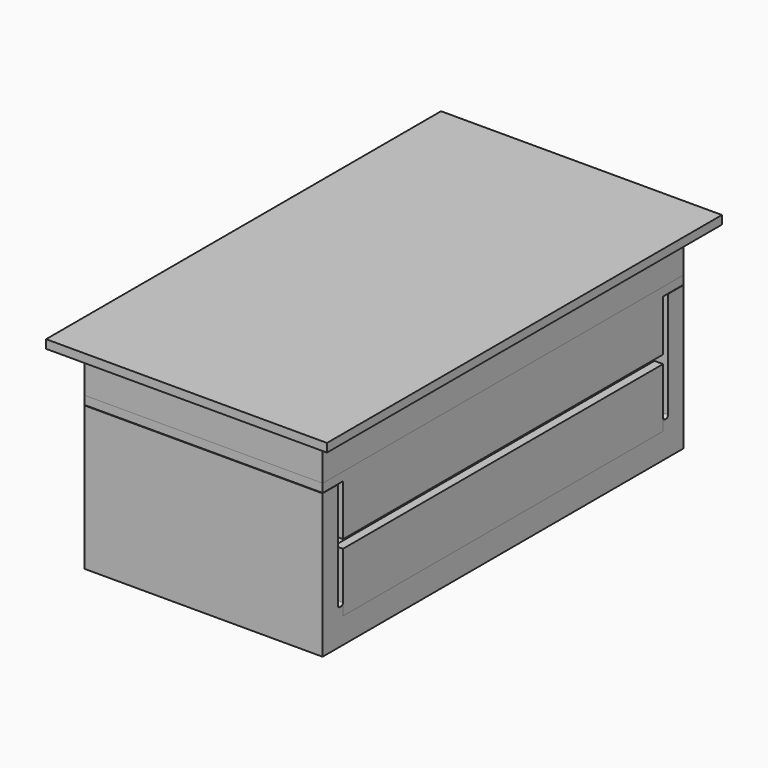
from build123d import *

# Parameters (mm, degrees)
SKETCH001_W     = 33
SKETCH001_H     = 58
PAD_DEPTH       = 1
SKETCH002_W     = 28
SKETCH002_H     = 53
PAD001_DEPTH    = 5
SKETCH003_R     = 5.5
POCKET_DEPTH    = 5
SKETCH015_R     = 1
POCKET003_DEPTH = 5
PAD002_DEPTH    = 23.5
SKETCH005_W     = 28
SKETCH005_H     = 1
PAD003_DEPTH    = 3
SKETCH012_W     = 28
SKETCH012_H     = 1
PAD009_DEPTH    = 3
SKETCH013_R     = 3.125
POCKET001_DEPTH = 4
SKETCH014_R     = 1
POCKET002_DEPTH = 5
PAD004_DEPTH    = 23.5
SKETCH008_W     = 27.983581
SKETCH008_H     = 1.102446
PAD005_DEPTH    = 3
SKETCH009_W     = 27.983581
SKETCH009_H     = 2.25
PAD006_DEPTH    = 12.8
FILLET_R        = 0.3
SKETCH010_W     = 27.983581
SKETCH010_H     = 1.102446
PAD007_DEPTH    = 3
SKETCH011_W     = 27.983581
SKETCH011_H     = 2.25
PAD008_DEPTH    = 12.8
FILLET001_R     = 0.3
SKETCH018_W     = 27.983581
SKETCH018_H     = 53
PAD010_DEPTH    = 3
SKETCH019_W     = 17.5
SKETCH019_H     = 25
POCKET004_DEPTH = 4
SKETCH020_R     = 1
POCKET005_DEPTH = 5


with BuildPart() as base:
    # Sketch001 → Pad (new body)
    with BuildSketch(Plane.XY):
        with Locations((8.25, -15.25)):
            Rectangle(SKETCH001_W, SKETCH001_H)
    extrude(amount=PAD_DEPTH)

    # Sketch002 (on Face5 of Pad) → Pad001 (join)
    with BuildSketch(Plane(origin=(0, 0, 0), x_dir=(1, 0, 0), z_dir=(0, 0, -1))):
        with Locations((8.25, 15.25)):
            Rectangle(SKETCH002_W, SKETCH002_H)
    extrude(amount=PAD001_DEPTH)

    # Sketch003 (on Face11 of Pad001) → Pocket (cut)
    with BuildSketch(Plane(origin=(0, 0, -5), x_dir=(1, 0, 0), z_dir=(0, 0, -1))):
        with Locations((0.25, 35.75)):
            Circle(SKETCH003_R)
        with Locations((16.25, 35.75)):
            Circle(SKETCH003_R)
        with Locations((0.25, -5.25)):
            Circle(SKETCH003_R)
        with Locations((16.25, -5.25)):
            Circle(SKETCH003_R)
    extrude(amount=-POCKET_DEPTH, mode=Mode.SUBTRACT)

    # Sketch015 (on Face11 of Pocket) → Pocket003 (cut)
    with BuildSketch(Plane(origin=(0, 0, -5), x_dir=(1, 0, 0), z_dir=(0, 0, -1))):
        with Locations((8.253864, 3.5)):
            Circle(SKETCH015_R)
        with Locations((8.253864, 27)):
            Circle(SKETCH015_R)
    extrude(amount=-POCKET003_DEPTH, mode=Mode.SUBTRACT)


with BuildPart() as battery:
    # Sketch004 (on DatumPlane) → Pad002 (new body, symmetric)
    with BuildSketch(Plane(origin=(0, -15.25, 0), x_dir=(-1, 0, 0), z_dir=(0, 1, 0))):
        with BuildLine():
            Line((-22.25, -5), (5.75, -5))
            Line((5.75, -5), (5.75, -12))
            Line((5.75, -12), (4.726136, -12))
            ThreePointArc((4.726136, -12), (-0.5, -7.25), (-5.726136, -12))
            Line((-5.726136, -12), (-10.773864, -12))
            ThreePointArc((-10.773864, -12), (-16, -7.25), (-21.226136, -12))
            Line((-21.226136, -12), (-22.25, -12))
            Line((-22.25, -12), (-22.25, -5))
        make_face()
    extrude(amount=PAD002_DEPTH, both=True)

    # Sketch005 (on Face10 of Pad002) → Pad003 (join)
    with BuildSketch(Plane(origin=(0, 8.25, 0), x_dir=(-1, 0, 0), z_dir=(0, 1, 0))):
        with Locations((-8.25, -5.5)):
            Rectangle(SKETCH005_W, SKETCH005_H)
    extrude(amount=PAD003_DEPTH)

    # Sketch012 (on Face4 of Pad003) → Pad009 (join)
    with BuildSketch(Plane(origin=(0, -38.75, 0), x_dir=(-1, 0, 0), z_dir=(0, -1, 0))):
        with Locations((-8.25, 5.5)):
            Rectangle(SKETCH012_W, SKETCH012_H)
    extrude(amount=PAD009_DEPTH)

    # Sketch013 (on Face17 of Pad009) → Pocket001 (cut)
    with BuildSketch(Plane(origin=(0, -15.25, -12), x_dir=(-1, 0, 0), z_dir=(0, 0, -1))):
        with Locations((-8.253864, 11.75)):
            Circle(SKETCH013_R)
        with Locations((-8.253864, -11.75)):
            Circle(SKETCH013_R)
    extrude(amount=-POCKET001_DEPTH, mode=Mode.SUBTRACT)

    # Sketch014 (on Face26 of Pocket001) → Pocket002 (cut)
    with BuildSketch(Plane(origin=(0, -15.25, -8), x_dir=(-1, 0, 0), z_dir=(0, 0, -1))):
        with Locations((-8.253864, 11.75)):
            Circle(SKETCH014_R)
        with Locations((-8.253864, -11.75)):
            Circle(SKETCH014_R)
    extrude(amount=-POCKET002_DEPTH, mode=Mode.SUBTRACT)


with BuildPart() as body002:
    # Sketch007 (on DatumPlane) → Pad004 (new body, symmetric)
    with BuildSketch(Plane(origin=(0, -15.25, 0), x_dir=(-1, 0, 0), z_dir=(0, 1, 0))):
        with BuildLine():
            ThreePointArc((-21.226136, -13), (-16, -17.75), (-10.773864, -13))
            Line((-5.726136, -13), (-10.773864, -13))
            ThreePointArc((-5.726136, -13), (-0.5, -17.75), (4.726136, -13))
            Line((5.75, -13), (4.726136, -13))
            Line((5.75, -17.924353), (5.75, -13))
            Line((5.75, -17.924353), (5.75, -19.952446))
            Line((5.75, -19.952446), (-22.233581, -19.952446))
            Line((-22.233581, -19.952446), (-22.233581, -17.75))
            Line((-22.233581, -13), (-22.233581, -17.75))
            Line((-21.226136, -13), (-22.233581, -13))
        make_face()
    extrude(amount=PAD004_DEPTH, both=True)

    # Sketch008 (on Face12 of Pad004) → Pad005 (join)
    with BuildSketch(Plane(origin=(0, 8.25, 0), x_dir=(-1, 0, 0), z_dir=(0, 1, 0))):
        with Locations((-8.24179, -19.401223)):
            Rectangle(SKETCH008_W, SKETCH008_H)
    extrude(amount=PAD005_DEPTH)

    # Sketch009 (on Face13 of Pad005) → Pad006 (join)
    with BuildSketch(Plane(origin=(0, -15.25, -18.85), x_dir=(1, 0, 0), z_dir=(0, 0, 1))):
        with Locations((8.24179, 25.375)):
            Rectangle(SKETCH009_W, SKETCH009_H)
    extrude(amount=PAD006_DEPTH)

    # Fillet
    fillet_edges = [body002.edges().sort_by_distance(p)[0] for p in [
        (8.241791, 8.25, -18.85),
        (8.241791, 9, -18.85),
    ]]
    fillet(fillet_edges, radius=FILLET_R)

    # Sketch010 (on Face13 of Fillet) → Pad007 (join)
    with BuildSketch(Plane(origin=(0, -38.75, 0), x_dir=(-1, 0, 0), z_dir=(0, -1, 0))):
        with Locations((-8.24179, 19.401223)):
            Rectangle(SKETCH010_W, SKETCH010_H)
    extrude(amount=PAD007_DEPTH)

    # Sketch011 (on Face22 of Pad007) → Pad008 (join)
    with BuildSketch(Plane(origin=(0, -15.25, -18.85), x_dir=(1, 0, 0), z_dir=(0, 0, 1))):
        with Locations((8.24179, -25.375)):
            Rectangle(SKETCH011_W, SKETCH011_H)
    extrude(amount=PAD008_DEPTH)

    # Fillet001
    fillet001_edges = [body002.edges().sort_by_distance(p)[0] for p in [
        (8.241791, -39.5, -18.85),
        (8.241791, -38.75, -18.85),
    ]]
    fillet(fillet001_edges, radius=FILLET001_R)

    # Sketch018 (on Face6 of Fillet001) → Pad010 (join)
    with BuildSketch(Plane(origin=(0, -15.25, -19.952446), x_dir=(-1, 0, 0), z_dir=(0, 0, -1))):
        with Locations((-8.24179, 0)):
            Rectangle(SKETCH018_W, SKETCH018_H)
    extrude(amount=PAD010_DEPTH)

    # Sketch019 (on Face22 of Pad010) → Pocket004 (cut)
    with BuildSketch(Plane(origin=(0, -15.25, -22.952446), x_dir=(-1, 0, 0), z_dir=(0, 0, -1))):
        with Locations((-8.75, 2.75)):
            Rectangle(SKETCH019_W, SKETCH019_H)
    extrude(amount=-POCKET004_DEPTH, mode=Mode.SUBTRACT)

    # Sketch020 (on Face22 of Pocket004) → Pocket005 (cut)
    with BuildSketch(Plane(origin=(0, -15.25, -22.952446), x_dir=(-1, 0, 0), z_dir=(0, 0, -1))):
        with Locations((-16.05, -12.7)):
            Circle(SKETCH020_R)
        with Locations((-0.467721, -12.7)):
            Circle(SKETCH020_R)
    extrude(amount=-POCKET005_DEPTH, mode=Mode.SUBTRACT)


solid = Compound([base.part, battery.part, body002.part])
